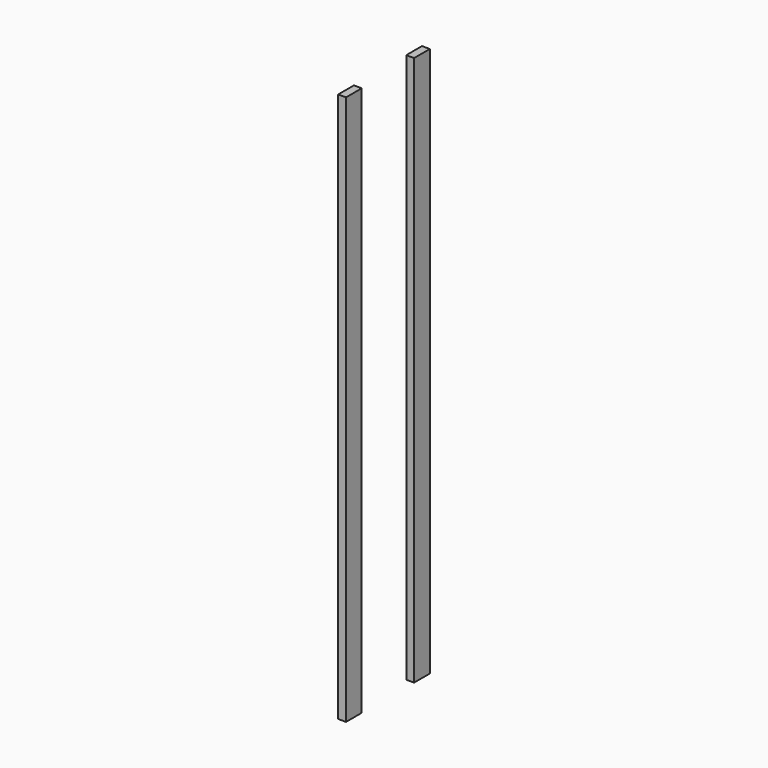
from build123d import *

# Parameters (mm, degrees)
CLONE2D107_W             = 75
CLONE2D107_H             = 30
EXTRUDE039486_DEPTH      = 2100
CLONE2D106_W             = 75
CLONE2D106_H             = 30
EXTRUDE039484_DEPTH      = 2100
CLONE055_PLACEMENT_ANGLE = 270


with BuildPart() as extrude039486:
    # Clone2D107 (on Clone2D) → Extrude039486 (new body)
    with BuildSketch(Plane(origin=(-75, -110, 0), x_dir=(1, 0, 0), z_dir=(0, 0, 1))):
        with Locations((37.5, -15)):
            Rectangle(CLONE2D107_W, CLONE2D107_H)
    extrude(amount=EXTRUDE039486_DEPTH)


with BuildPart() as clone055:
    # Clone2D106 (on Clone2D) → Extrude039484 (new body)
    with BuildSketch(Plane(origin=(-400, -110, 0), x_dir=(1, 0, 0), z_dir=(0, 0, 1))):
        with Locations((37.5, -15)):
            Rectangle(CLONE2D106_W, CLONE2D106_H)
    extrude(amount=EXTRUDE039484_DEPTH)

    # Compound061: union Extrude039486
    add(extrude039486.part)


with BuildPart() as clone055_1:
    # Clone055 placement: moved
    add(clone055.part.moved(Location((-260, -540, 0))).rotate(Axis((-260, -540, 0), (0, 0, 1)), CLONE055_PLACEMENT_ANGLE))


with BuildPart() as mirror157:
    # Mirror157: instance of Clone055
    add(clone055_1.part.mirror(Plane(origin=(0, 0, 0), x_dir=(0, -1, 0), z_dir=(1, 0, 0))))


solid = mirror157.part
